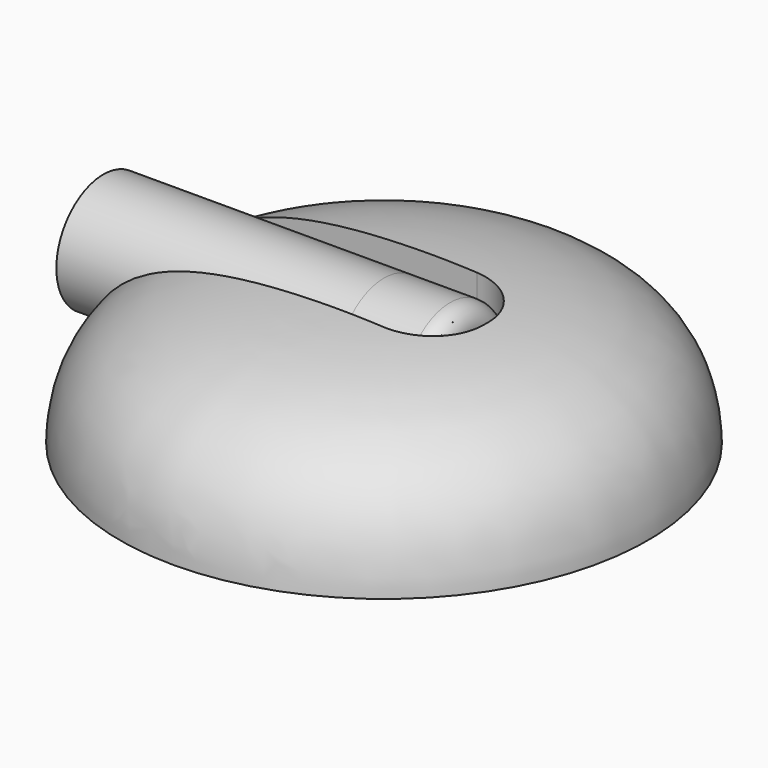
from build123d import *

# Parameters (mm, degrees)
F2_W          = 1.9304
F2_H          = 0.5319268
F3_DEPTH      = 1.2954
F4_R          = 0.254
F5_R          = 0.265968525
F6_DEPTH      = 1.27
F6_DEPTH_BACK = 0.38608
F7_T          = -0.0254
F8_R          = 0.08636


with BuildPart() as f1:
    # F0 (on Front) → F1 (revolve)
    with BuildSketch(Plane.XZ):
        with BuildLine():
            Line((0, 0), (0, 0.6544719217))
            add(Edge.make_bspline(
                [(0, 0.6544719217), (-0.3825341118, 0.633114716), (-1.1825968977, 0.6597214378), (-1.1941111879, 0)],
                knots=[0, 0, 0, 0, 1.3617029873, 1.3617029873, 1.3617029873, 1.3617029873], degree=3))
            Line((-1.1941111879, 0), (0, 0))
        make_face()
    revolve(axis=Axis((0, 0, 0.3272359609), (0, 0, 1)))

    # F2 (on Top) → F3 (cut)
    with BuildSketch(Plane.XY):
        with Locations((-0.5055966453, 0.0024771143)):
            Rectangle(F2_W, F2_H)
    extrude(amount=F3_DEPTH, mode=Mode.SUBTRACT)

    # F4
    f4_edges = [f1.edges().sort_by_distance(p)[0] for p in [
        (0.459603, 0.268441, 0.306859),
        (0.459603, -0.263486, 0.30706),
    ]]
    fillet(f4_edges, radius=F4_R)


with BuildPart() as f6:
    # F5 (on Right) → F6 (new body, two sides)
    with BuildSketch(Plane.YZ) as f6_sk:
        with Locations((0, 0.3911597887)):
            Circle(F5_R)
    extrude(amount=-F6_DEPTH)
    extrude(f6_sk.sketch, amount=F6_DEPTH_BACK)

    # F7
    f7_openings = [f6.faces().sort_by_distance(p)[0] for p in [
        (-1.27, 0, 0.39116),
    ]]
    offset(amount=F7_T, openings=f7_openings)

    # F8
    f8_edges = [f6.edges().sort_by_distance(p)[0] for p in [
        (0.38608, -0.265969, 0.39116),
    ]]
    fillet(f8_edges, radius=F8_R)


solid = Compound([f1.part, f6.part])
